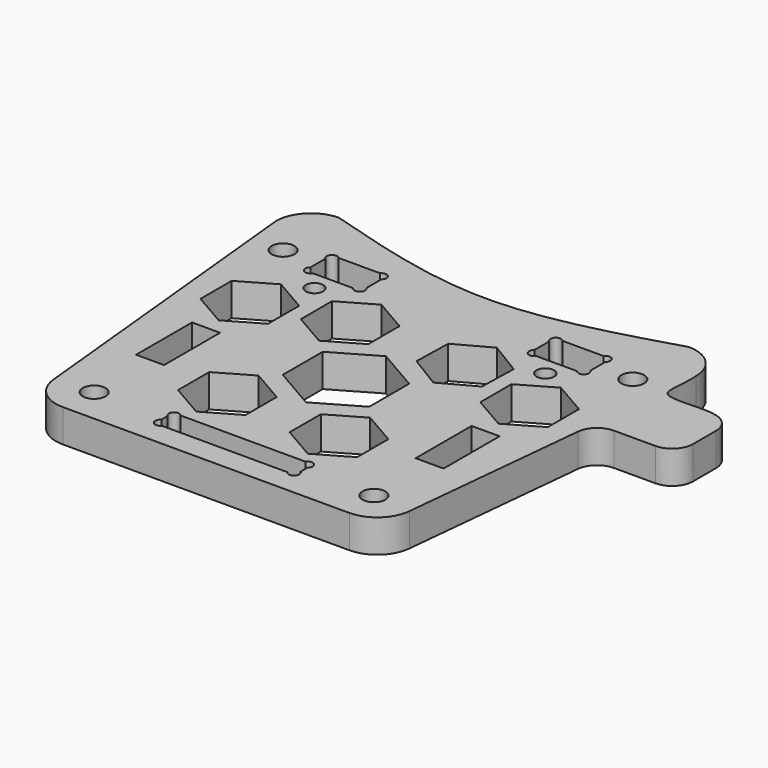
from build123d import *

# Parameters (mm, degrees)
F0_R     = 1.625
F0_W     = 4
F0_H     = 10
F0_R_2   = 1.25
F1_DEPTH = 4.7


with BuildPart() as f1:
    # F0 (on Top) → F1 (new body)
    with BuildSketch(Plane.XY):
        with BuildLine():
            add(Edge.make_bspline(
                [(-25, 30), (-16.6666666667, 27.5), (0, 22.5), (16.6666666667, 27.5), (25, 30)],
                knots=[0, 0, 0, 0, 0.5, 1, 1, 1, 1], degree=3))
            ThreePointArc((-25, 30), (-28.5355339059, 28.5355339059), (-30, 25))
            Line((-30, 25), (-25.4502481405, -20.4975185951))
            ThreePointArc((-25.4502481405, -20.4975185951), (-23.8300887932, -23.7072626678), (-20.4750621894, -25))
            Line((-20.4750621894, -25), (20.4750621894, -25))
            ThreePointArc((20.4750621894, -25), (23.8300887932, -23.7072626678), (25.4502481405, -20.4975185951))
            Line((25.4502481405, -20.4975185951), (28.1283814421, 6.2838144207))
            ThreePointArc((28.1283814421, 6.2838144207), (29.1004770504, 8.2096608643), (31.1134930127, 8.9853032636))
            Line((31.1134930127, 8.9853032636), (37.0436744094, 8.9853032636))
            ThreePointArc((37.0436744094, 8.9853032636), (39.1649947529, 9.8639829201), (40.0436744094, 11.9853032636))
            Line((40.0436744094, 11.9853032636), (40.0436744094, 16.0809016612))
            ThreePointArc((40.0436744094, 16.0809016612), (39.3365537713, 18.0155086579), (37.548538255, 19.0381152986))
            add(Edge.make_bspline(
                [(37.548538255, 19.0381152986), (35.7360548553, 19.6021584041), (28.2950816113, 18.0164181116), (30.2645805174, 22.0138513825), (30.0311879378, 25.0456203954)],
                knots=[0, 0, 0, 0, 0.5296135435, 1, 1, 1, 1], degree=3))
            ThreePointArc((30.0311879378, 25.0456203954), (28.5396301936, 28.5627221771), (25, 30))
        make_face()
        with Locations((-20, -20)):
            Circle(F0_R, mode=Mode.SUBTRACT)
        with Locations((-20.0009244606, -5.0052320585)):
            Rectangle(F0_W, F0_H, mode=Mode.SUBTRACT)
        Polygon((-8.1802440323, -5.3997794123), (-3.3549207728, -8.1856810951), (-3.3549207728, -13.7574844606), (-8.1802440323, -16.5433861434), (-13.0055672918, -13.7574844606), (-13.0055672918, -8.1856810951), align=None, mode=Mode.SUBTRACT)
        with BuildLine():
            ThreePointArc((-10, -19.401907669), (-10.0513998883, -18.2727701311), (-8.9257256095, -18.375))
            Line((-8.9257256095, -18.375), (8.9100834385, -18.375))
            ThreePointArc((8.9100834385, -18.375), (9.7517245005, -18.0697014688), (10.2861024141, -18.7880378217))
            ThreePointArc((10.2861024141, -18.7880378217), (10.2107961185, -19.11558691), (10, -19.3773586424))
            Line((10, -19.3773586424), (10, -20.6065653335))
            ThreePointArc((10, -20.6065653335), (10.2236569087, -20.8718943432), (10.3039381728, -21.2094988674))
            ThreePointArc((10.3039381728, -21.2094988674), (9.7709749673, -21.9274090497), (8.9295514266, -21.625))
            Line((8.9295514266, -21.625), (-9.0261640875, -21.625))
            ThreePointArc((-9.0261640875, -21.625), (-10.1675915661, -21.6382055576), (-10, -20.5090713127))
            Line((-10, -20.5090713127), (-10, -19.401907669))
        make_face(mode=Mode.SUBTRACT)
        Polygon((0, 7.1363311114), (6.1802440323, 3.5681655557), (6.1802440323, -3.5681655557), (0, -7.1363311114), (-6.1802440323, -3.5681655557), (-6.1802440323, 3.5681655557), align=None, mode=Mode.SUBTRACT)
        Polygon((7.9154452756, -5.5708927447), (12.7407685351, -8.3567944274), (12.7407685351, -13.928597793), (7.9154452756, -16.7144994758), (3.0901220161, -13.928597793), (3.0901220161, -8.3567944274), align=None, mode=Mode.SUBTRACT)
        with Locations((20, -20)):
            Circle(F0_R, mode=Mode.SUBTRACT)
        with Locations((20, -5.05)):
            Rectangle(F0_W, F0_H, mode=Mode.SUBTRACT)
        Polygon((-20.0009244606, 13.3948474335), (-15.1756012011, 10.6089457508), (-15.1756012011, 5.0371423852), (-20.0009244606, 2.2512407024), (-24.82624772, 5.0371423852), (-24.82624772, 10.6089457508), align=None, mode=Mode.SUBTRACT)
        with Locations((-25, 20)):
            Circle(F0_R, mode=Mode.SUBTRACT)
        with Locations((-16.5, 15)):
            Circle(F0_R_2, mode=Mode.SUBTRACT)
        with BuildLine():
            Line((-18.9690281908, 22.3947679415), (-13.0369684141, 22.3947679415))
            ThreePointArc((-13.0369684141, 22.3947679415), (-12.2097536628, 22.5981119747), (-11.7259983025, 21.8969602138))
            ThreePointArc((-11.7259983025, 21.8969602138), (-11.7982057894, 21.5758725166), (-12.0009244606, 21.3166113146))
            Line((-12.0009244606, 21.3166113146), (-12.0009244606, 18.6603450082))
            ThreePointArc((-12.0009244606, 18.6603450082), (-11.7982057894, 18.4010838062), (-11.7259983025, 18.079996109))
            ThreePointArc((-11.7259983025, 18.079996109), (-12.2761597232, 17.3571098508), (-13.1195037484, 17.6947679415))
            Line((-13.1195037484, 17.6947679415), (-18.8864928565, 17.6947679415))
            ThreePointArc((-18.8864928565, 17.6947679415), (-20.0220967065, 17.5140109849), (-20.0009244606, 18.6637156937))
            Line((-20.0009244606, 18.6637156937), (-20.0009244606, 21.3132406291))
            ThreePointArc((-20.0009244606, 21.3132406291), (-20.0726329036, 22.4146934363), (-18.9690281908, 22.3947679415))
        make_face(mode=Mode.SUBTRACT)
        Polygon((-8.1802440323, 16.5475976726), (-3.3549207728, 13.7616959899), (-3.3549207728, 8.1898926243), (-8.1802440323, 5.4039909415), (-13.0055672918, 8.1898926243), (-13.0055672918, 13.7616959899), align=None, mode=Mode.SUBTRACT)
        Polygon((8.3825656368, 16.4824857433), (13.0854032248, 13.614656513), (12.9532090517, 8.1079650768), (8.1181772905, 5.4691028708), (3.4153397025, 8.3369321011), (3.5475338756, 13.8436235374), align=None, mode=Mode.SUBTRACT)
        Polygon((20, 13.3948474335), (24.8253232595, 10.6089457508), (24.8253232595, 5.0371423852), (20, 2.2512407024), (15.1746767405, 5.0371423852), (15.1746767405, 10.6089457508), align=None, mode=Mode.SUBTRACT)
        with Locations((16.5, 15)):
            Circle(F0_R_2, mode=Mode.SUBTRACT)
        with BuildLine():
            Line((13.0715344231, 22.35), (18.9243178932, 22.35))
            ThreePointArc((18.9243178932, 22.35), (19.7616156185, 22.6124849113), (20.2749261581, 21.9008121639))
            ThreePointArc((20.2749261581, 21.9008121639), (20.2027186711, 21.5797244667), (20, 21.3204632648))
            Line((20, 21.3204632648), (20, 18.6641969584))
            ThreePointArc((20, 18.6641969584), (20.2027186711, 18.4049357564), (20.2749261581, 18.0838480592))
            ThreePointArc((20.2749261581, 18.0838480592), (19.7525929431, 17.3692377912), (18.9131452647, 17.65))
            Line((18.9131452647, 17.65), (13.0827070515, 17.65))
            ThreePointArc((13.0827070515, 17.65), (11.9572910818, 17.5373327269), (12, 18.6675676439))
            Line((12, 18.6675676439), (12, 21.3170925792))
            ThreePointArc((12, 21.3170925792), (11.9504179476, 22.4407854992), (13.0715344231, 22.35))
        make_face(mode=Mode.SUBTRACT)
        with Locations((25, 20)):
            Circle(F0_R, mode=Mode.SUBTRACT)
        with BuildLine():
            add(Edge.make_bspline(
                [(-25, 30), (-16.6666666667, 27.5), (0, 22.5), (16.6666666667, 27.5), (25, 30)],
                knots=[0, 0, 0, 0, 0.5, 1, 1, 1, 1], degree=3))
            ThreePointArc((-25, 30), (-28.5355339059, 28.5355339059), (-30, 25))
            Line((-30, 25), (-25.4502481405, -20.4975185951))
            ThreePointArc((-25.4502481405, -20.4975185951), (-23.8300887932, -23.7072626678), (-20.4750621894, -25))
            Line((-20.4750621894, -25), (20.4750621894, -25))
            ThreePointArc((20.4750621894, -25), (23.8300887932, -23.7072626678), (25.4502481405, -20.4975185951))
            Line((25.4502481405, -20.4975185951), (28.1283814421, 6.2838144207))
            ThreePointArc((28.1283814421, 6.2838144207), (29.1004770504, 8.2096608643), (31.1134930127, 8.9853032636))
            Line((31.1134930127, 8.9853032636), (37.0436744094, 8.9853032636))
            ThreePointArc((37.0436744094, 8.9853032636), (39.1649947529, 9.8639829201), (40.0436744094, 11.9853032636))
            Line((40.0436744094, 11.9853032636), (40.0436744094, 16.0809016612))
            ThreePointArc((40.0436744094, 16.0809016612), (39.3365537713, 18.0155086579), (37.548538255, 19.0381152986))
            add(Edge.make_bspline(
                [(37.548538255, 19.0381152986), (35.7360548553, 19.6021584041), (28.2950816113, 18.0164181116), (30.2645805174, 22.0138513825), (30.0311879378, 25.0456203954)],
                knots=[0, 0, 0, 0, 0.5296135435, 1, 1, 1, 1], degree=3))
            ThreePointArc((30.0311879378, 25.0456203954), (28.5396301936, 28.5627221771), (25, 30))
        make_face()
        with Locations((-20, -20)):
            Circle(F0_R, mode=Mode.SUBTRACT)
        with Locations((-20.0009244606, -5.0052320585)):
            Rectangle(F0_W, F0_H, mode=Mode.SUBTRACT)
        Polygon((-8.1802440323, -5.3997794123), (-3.3549207728, -8.1856810951), (-3.3549207728, -13.7574844606), (-8.1802440323, -16.5433861434), (-13.0055672918, -13.7574844606), (-13.0055672918, -8.1856810951), align=None, mode=Mode.SUBTRACT)
        with BuildLine():
            ThreePointArc((-10, -19.401907669), (-10.0513998883, -18.2727701311), (-8.9257256095, -18.375))
            Line((-8.9257256095, -18.375), (8.9100834385, -18.375))
            ThreePointArc((8.9100834385, -18.375), (9.7517245005, -18.0697014688), (10.2861024141, -18.7880378217))
            ThreePointArc((10.2861024141, -18.7880378217), (10.2107961185, -19.11558691), (10, -19.3773586424))
            Line((10, -19.3773586424), (10, -20.6065653335))
            ThreePointArc((10, -20.6065653335), (10.2236569087, -20.8718943432), (10.3039381728, -21.2094988674))
            ThreePointArc((10.3039381728, -21.2094988674), (9.7709749673, -21.9274090497), (8.9295514266, -21.625))
            Line((8.9295514266, -21.625), (-9.0261640875, -21.625))
            ThreePointArc((-9.0261640875, -21.625), (-10.1675915661, -21.6382055576), (-10, -20.5090713127))
            Line((-10, -20.5090713127), (-10, -19.401907669))
        make_face(mode=Mode.SUBTRACT)
        Polygon((0, 7.1363311114), (6.1802440323, 3.5681655557), (6.1802440323, -3.5681655557), (0, -7.1363311114), (-6.1802440323, -3.5681655557), (-6.1802440323, 3.5681655557), align=None, mode=Mode.SUBTRACT)
        Polygon((7.9154452756, -5.5708927447), (12.7407685351, -8.3567944274), (12.7407685351, -13.928597793), (7.9154452756, -16.7144994758), (3.0901220161, -13.928597793), (3.0901220161, -8.3567944274), align=None, mode=Mode.SUBTRACT)
        with Locations((20, -20)):
            Circle(F0_R, mode=Mode.SUBTRACT)
        with Locations((20, -5.05)):
            Rectangle(F0_W, F0_H, mode=Mode.SUBTRACT)
        Polygon((-20.0009244606, 13.3948474335), (-15.1756012011, 10.6089457508), (-15.1756012011, 5.0371423852), (-20.0009244606, 2.2512407024), (-24.82624772, 5.0371423852), (-24.82624772, 10.6089457508), align=None, mode=Mode.SUBTRACT)
        with Locations((-25, 20)):
            Circle(F0_R, mode=Mode.SUBTRACT)
        with Locations((-16.5, 15)):
            Circle(F0_R_2, mode=Mode.SUBTRACT)
        with BuildLine():
            Line((-18.9690281908, 22.3947679415), (-13.0369684141, 22.3947679415))
            ThreePointArc((-13.0369684141, 22.3947679415), (-12.2097536628, 22.5981119747), (-11.7259983025, 21.8969602138))
            ThreePointArc((-11.7259983025, 21.8969602138), (-11.7982057894, 21.5758725166), (-12.0009244606, 21.3166113146))
            Line((-12.0009244606, 21.3166113146), (-12.0009244606, 18.6603450082))
            ThreePointArc((-12.0009244606, 18.6603450082), (-11.7982057894, 18.4010838062), (-11.7259983025, 18.079996109))
            ThreePointArc((-11.7259983025, 18.079996109), (-12.2761597232, 17.3571098508), (-13.1195037484, 17.6947679415))
            Line((-13.1195037484, 17.6947679415), (-18.8864928565, 17.6947679415))
            ThreePointArc((-18.8864928565, 17.6947679415), (-20.0220967065, 17.5140109849), (-20.0009244606, 18.6637156937))
            Line((-20.0009244606, 18.6637156937), (-20.0009244606, 21.3132406291))
            ThreePointArc((-20.0009244606, 21.3132406291), (-20.0726329036, 22.4146934363), (-18.9690281908, 22.3947679415))
        make_face(mode=Mode.SUBTRACT)
        Polygon((-8.1802440323, 16.5475976726), (-3.3549207728, 13.7616959899), (-3.3549207728, 8.1898926243), (-8.1802440323, 5.4039909415), (-13.0055672918, 8.1898926243), (-13.0055672918, 13.7616959899), align=None, mode=Mode.SUBTRACT)
        Polygon((8.3825656368, 16.4824857433), (13.0854032248, 13.614656513), (12.9532090517, 8.1079650768), (8.1181772905, 5.4691028708), (3.4153397025, 8.3369321011), (3.5475338756, 13.8436235374), align=None, mode=Mode.SUBTRACT)
        Polygon((20, 13.3948474335), (24.8253232595, 10.6089457508), (24.8253232595, 5.0371423852), (20, 2.2512407024), (15.1746767405, 5.0371423852), (15.1746767405, 10.6089457508), align=None, mode=Mode.SUBTRACT)
        with Locations((16.5, 15)):
            Circle(F0_R_2, mode=Mode.SUBTRACT)
        with BuildLine():
            Line((13.0715344231, 22.35), (18.9243178932, 22.35))
            ThreePointArc((18.9243178932, 22.35), (19.7616156185, 22.6124849113), (20.2749261581, 21.9008121639))
            ThreePointArc((20.2749261581, 21.9008121639), (20.2027186711, 21.5797244667), (20, 21.3204632648))
            Line((20, 21.3204632648), (20, 18.6641969584))
            ThreePointArc((20, 18.6641969584), (20.2027186711, 18.4049357564), (20.2749261581, 18.0838480592))
            ThreePointArc((20.2749261581, 18.0838480592), (19.7525929431, 17.3692377912), (18.9131452647, 17.65))
            Line((18.9131452647, 17.65), (13.0827070515, 17.65))
            ThreePointArc((13.0827070515, 17.65), (11.9572910818, 17.5373327269), (12, 18.6675676439))
            Line((12, 18.6675676439), (12, 21.3170925792))
            ThreePointArc((12, 21.3170925792), (11.9504179476, 22.4407854992), (13.0715344231, 22.35))
        make_face(mode=Mode.SUBTRACT)
        with Locations((25, 20)):
            Circle(F0_R, mode=Mode.SUBTRACT)
        with BuildLine():
            add(Edge.make_bspline(
                [(-25, 30), (-16.6666666667, 27.5), (0, 22.5), (16.6666666667, 27.5), (25, 30)],
                knots=[0, 0, 0, 0, 0.5, 1, 1, 1, 1], degree=3))
            ThreePointArc((-25, 30), (-28.5355339059, 28.5355339059), (-30, 25))
            Line((-30, 25), (-25.4502481405, -20.4975185951))
            ThreePointArc((-25.4502481405, -20.4975185951), (-23.8300887932, -23.7072626678), (-20.4750621894, -25))
            Line((-20.4750621894, -25), (20.4750621894, -25))
            ThreePointArc((20.4750621894, -25), (23.8300887932, -23.7072626678), (25.4502481405, -20.4975185951))
            Line((25.4502481405, -20.4975185951), (28.1283814421, 6.2838144207))
            ThreePointArc((28.1283814421, 6.2838144207), (29.1004770504, 8.2096608643), (31.1134930127, 8.9853032636))
            Line((31.1134930127, 8.9853032636), (37.0436744094, 8.9853032636))
            ThreePointArc((37.0436744094, 8.9853032636), (39.1649947529, 9.8639829201), (40.0436744094, 11.9853032636))
            Line((40.0436744094, 11.9853032636), (40.0436744094, 16.0809016612))
            ThreePointArc((40.0436744094, 16.0809016612), (39.3365537713, 18.0155086579), (37.548538255, 19.0381152986))
            add(Edge.make_bspline(
                [(37.548538255, 19.0381152986), (35.7360548553, 19.6021584041), (28.2950816113, 18.0164181116), (30.2645805174, 22.0138513825), (30.0311879378, 25.0456203954)],
                knots=[0, 0, 0, 0, 0.5296135435, 1, 1, 1, 1], degree=3))
            ThreePointArc((30.0311879378, 25.0456203954), (28.5396301936, 28.5627221771), (25, 30))
        make_face()
        with Locations((-20, -20)):
            Circle(F0_R, mode=Mode.SUBTRACT)
        with Locations((-20.0009244606, -5.0052320585)):
            Rectangle(F0_W, F0_H, mode=Mode.SUBTRACT)
        Polygon((-8.1802440323, -5.3997794123), (-3.3549207728, -8.1856810951), (-3.3549207728, -13.7574844606), (-8.1802440323, -16.5433861434), (-13.0055672918, -13.7574844606), (-13.0055672918, -8.1856810951), align=None, mode=Mode.SUBTRACT)
        with BuildLine():
            ThreePointArc((-10, -19.401907669), (-10.0513998883, -18.2727701311), (-8.9257256095, -18.375))
            Line((-8.9257256095, -18.375), (8.9100834385, -18.375))
            ThreePointArc((8.9100834385, -18.375), (9.7517245005, -18.0697014688), (10.2861024141, -18.7880378217))
            ThreePointArc((10.2861024141, -18.7880378217), (10.2107961185, -19.11558691), (10, -19.3773586424))
            Line((10, -19.3773586424), (10, -20.6065653335))
            ThreePointArc((10, -20.6065653335), (10.2236569087, -20.8718943432), (10.3039381728, -21.2094988674))
            ThreePointArc((10.3039381728, -21.2094988674), (9.7709749673, -21.9274090497), (8.9295514266, -21.625))
            Line((8.9295514266, -21.625), (-9.0261640875, -21.625))
            ThreePointArc((-9.0261640875, -21.625), (-10.1675915661, -21.6382055576), (-10, -20.5090713127))
            Line((-10, -20.5090713127), (-10, -19.401907669))
        make_face(mode=Mode.SUBTRACT)
        Polygon((0, 7.1363311114), (6.1802440323, 3.5681655557), (6.1802440323, -3.5681655557), (0, -7.1363311114), (-6.1802440323, -3.5681655557), (-6.1802440323, 3.5681655557), align=None, mode=Mode.SUBTRACT)
        Polygon((7.9154452756, -5.5708927447), (12.7407685351, -8.3567944274), (12.7407685351, -13.928597793), (7.9154452756, -16.7144994758), (3.0901220161, -13.928597793), (3.0901220161, -8.3567944274), align=None, mode=Mode.SUBTRACT)
        with Locations((20, -20)):
            Circle(F0_R, mode=Mode.SUBTRACT)
        with Locations((20, -5.05)):
            Rectangle(F0_W, F0_H, mode=Mode.SUBTRACT)
        Polygon((-20.0009244606, 13.3948474335), (-15.1756012011, 10.6089457508), (-15.1756012011, 5.0371423852), (-20.0009244606, 2.2512407024), (-24.82624772, 5.0371423852), (-24.82624772, 10.6089457508), align=None, mode=Mode.SUBTRACT)
        with Locations((-25, 20)):
            Circle(F0_R, mode=Mode.SUBTRACT)
        with Locations((-16.5, 15)):
            Circle(F0_R_2, mode=Mode.SUBTRACT)
        with BuildLine():
            Line((-18.9690281908, 22.3947679415), (-13.0369684141, 22.3947679415))
            ThreePointArc((-13.0369684141, 22.3947679415), (-12.2097536628, 22.5981119747), (-11.7259983025, 21.8969602138))
            ThreePointArc((-11.7259983025, 21.8969602138), (-11.7982057894, 21.5758725166), (-12.0009244606, 21.3166113146))
            Line((-12.0009244606, 21.3166113146), (-12.0009244606, 18.6603450082))
            ThreePointArc((-12.0009244606, 18.6603450082), (-11.7982057894, 18.4010838062), (-11.7259983025, 18.079996109))
            ThreePointArc((-11.7259983025, 18.079996109), (-12.2761597232, 17.3571098508), (-13.1195037484, 17.6947679415))
            Line((-13.1195037484, 17.6947679415), (-18.8864928565, 17.6947679415))
            ThreePointArc((-18.8864928565, 17.6947679415), (-20.0220967065, 17.5140109849), (-20.0009244606, 18.6637156937))
            Line((-20.0009244606, 18.6637156937), (-20.0009244606, 21.3132406291))
            ThreePointArc((-20.0009244606, 21.3132406291), (-20.0726329036, 22.4146934363), (-18.9690281908, 22.3947679415))
        make_face(mode=Mode.SUBTRACT)
        Polygon((-8.1802440323, 16.5475976726), (-3.3549207728, 13.7616959899), (-3.3549207728, 8.1898926243), (-8.1802440323, 5.4039909415), (-13.0055672918, 8.1898926243), (-13.0055672918, 13.7616959899), align=None, mode=Mode.SUBTRACT)
        Polygon((8.3825656368, 16.4824857433), (13.0854032248, 13.614656513), (12.9532090517, 8.1079650768), (8.1181772905, 5.4691028708), (3.4153397025, 8.3369321011), (3.5475338756, 13.8436235374), align=None, mode=Mode.SUBTRACT)
        Polygon((20, 13.3948474335), (24.8253232595, 10.6089457508), (24.8253232595, 5.0371423852), (20, 2.2512407024), (15.1746767405, 5.0371423852), (15.1746767405, 10.6089457508), align=None, mode=Mode.SUBTRACT)
        with Locations((16.5, 15)):
            Circle(F0_R_2, mode=Mode.SUBTRACT)
        with BuildLine():
            Line((13.0715344231, 22.35), (18.9243178932, 22.35))
            ThreePointArc((18.9243178932, 22.35), (19.7616156185, 22.6124849113), (20.2749261581, 21.9008121639))
            ThreePointArc((20.2749261581, 21.9008121639), (20.2027186711, 21.5797244667), (20, 21.3204632648))
            Line((20, 21.3204632648), (20, 18.6641969584))
            ThreePointArc((20, 18.6641969584), (20.2027186711, 18.4049357564), (20.2749261581, 18.0838480592))
            ThreePointArc((20.2749261581, 18.0838480592), (19.7525929431, 17.3692377912), (18.9131452647, 17.65))
            Line((18.9131452647, 17.65), (13.0827070515, 17.65))
            ThreePointArc((13.0827070515, 17.65), (11.9572910818, 17.5373327269), (12, 18.6675676439))
            Line((12, 18.6675676439), (12, 21.3170925792))
            ThreePointArc((12, 21.3170925792), (11.9504179476, 22.4407854992), (13.0715344231, 22.35))
        make_face(mode=Mode.SUBTRACT)
        with Locations((25, 20)):
            Circle(F0_R, mode=Mode.SUBTRACT)
    extrude(amount=F1_DEPTH)


solid = f1.part
